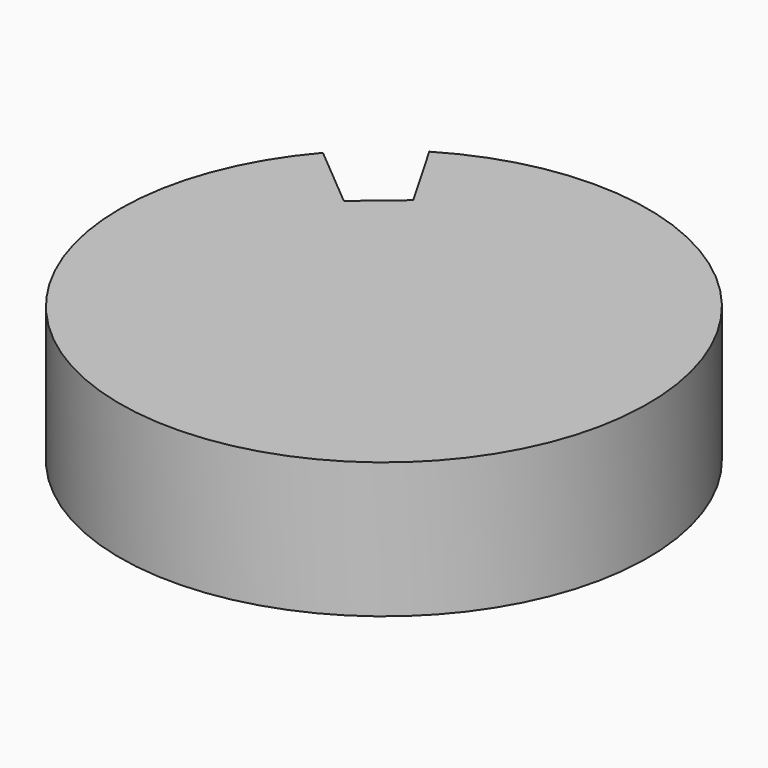
from build123d import *

# Parameters (mm, degrees)
F0_R     = 48.685796
F1_DEPTH = 25
F3_DEPTH = 25.001


with BuildPart() as f1:
    # F0 (on Top) → F1 (new body)
    with BuildSketch(Plane.XY):
        Circle(F0_R)
    extrude(amount=F1_DEPTH)

    # F2 (on face) → F3 (cut, through all)
    with BuildSketch(Plane.XY.offset(25)):
        with BuildLine():
            Line((-17.381769, 28.493405), (-25.03788, 41.754177))
            ThreePointArc((-25.03788, 41.754177), (-31.294627, 37.295484), (-36.772055, 31.908035))
            Line((-36.772055, 31.908035), (-25.042213, 22.065529))
            Line((-25.042213, 22.065529), (-17.381769, 28.493405))
        make_face()
    extrude(amount=-F3_DEPTH, mode=Mode.SUBTRACT)


solid = f1.part
